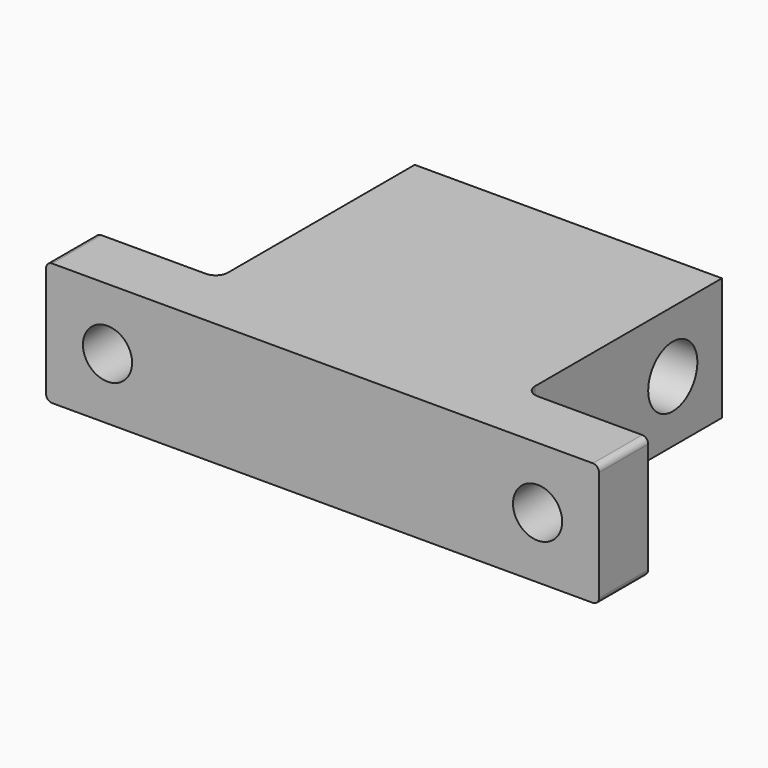
from build123d import *

# Parameters (mm, degrees)
F1_DEPTH = 10
F3_D     = 5
F5_D     = 4
F6_R     = 0.5
F7_R     = 1


with BuildPart() as f1:
    # F0 (on Top) → F1 (new body)
    with BuildSketch(Plane.XY):
        Polygon((0, 5), (0, 0), (45, 0), (45, 5), (35, 5), (35, 25), (10, 25), (10, 5), align=None)
    extrude(amount=F1_DEPTH)

    # F3 (through all)
    with Locations(Plane.YZ.offset(35)):
        with Locations((20, 5)):
            Hole(F3_D / 2)

    # F5 (through all)
    with Locations(Plane.XZ):
        with Locations((5, 5), (40, 5)):
            Hole(F5_D / 2)

    # F6
    f6_edges = [f1.edges().sort_by_distance(p)[0] for p in [
        (0, 2.5, 10),
        (0, 2.5, 0),
        (45, 2.5, 10),
        (45, 2.5, 0),
    ]]
    fillet(f6_edges, radius=F6_R)

    # F7
    f7_edges = [f1.edges().sort_by_distance(p)[0] for p in [
        (10, 5, 5),
        (35, 5, 5),
    ]]
    fillet(f7_edges, radius=F7_R)


solid = f1.part
